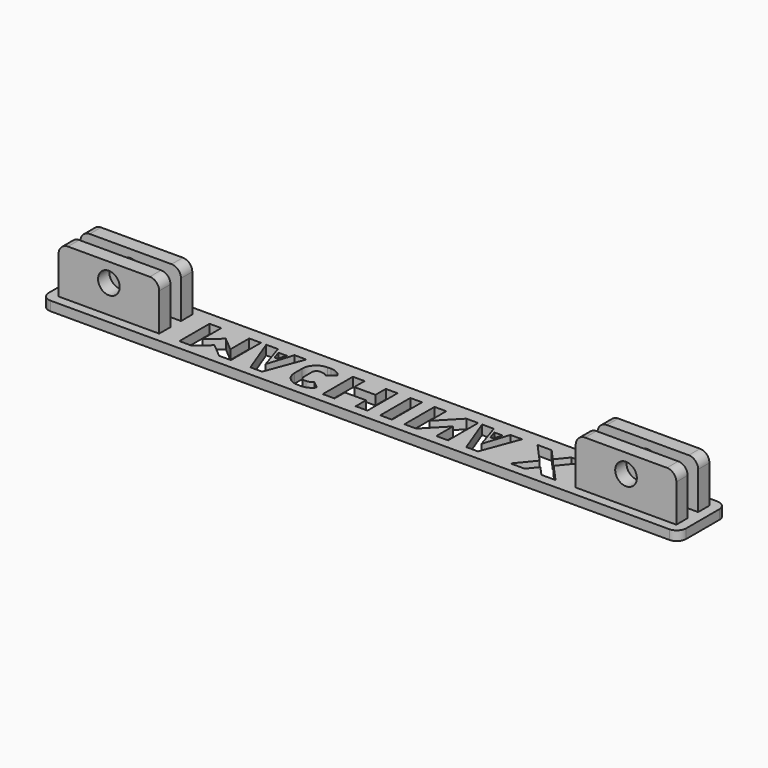
from build123d import *

# Parameters (mm, degrees)
F1_DEPTH = 2
F2_W     = 21.4
F2_H     = 3
F3_DEPTH = 10
F4_R     = 2
F5_R     = 2.3
F6_DEPTH = 25
F7_W     = 2.5
F7_H     = 8
F8_DEPTH = 25


with BuildPart() as f1:
    # F0 (on Top) → F1 (new body)
    with BuildSketch(Plane.XY):
        with BuildLine():
            Line((65.45691, 19.981824), (-66.14309, 19.981824))
            ThreePointArc((-66.14309, 19.981824), (-67.557303, 19.396037), (-68.14309, 17.981824))
            Line((-68.14309, 17.981824), (-68.14309, 9.181824))
            ThreePointArc((-68.14309, 9.181824), (-67.557303, 7.76761), (-66.14309, 7.181824))
            Line((-66.14309, 7.181824), (65.45691, 7.181824))
            ThreePointArc((65.45691, 7.181824), (66.871124, 7.76761), (67.45691, 9.181824))
            Line((67.45691, 9.181824), (67.45691, 17.981824))
            ThreePointArc((67.45691, 17.981824), (66.871124, 19.396037), (65.45691, 19.981824))
        make_face()
    extrude(amount=F1_DEPTH)

    # F2 (on face) → F3 (join)
    with BuildSketch(Plane.XY.offset(2)):
        with Locations((-55.34309, 10.681824)):
            Rectangle(F2_W, F2_H)
        with Locations((-55.34309, 16.481824)):
            Rectangle(F2_W, F2_H)
        with Locations((54.65691, 16.481824)):
            Rectangle(F2_W, F2_H)
        with Locations((54.65691, 10.681824)):
            Rectangle(F2_W, F2_H)
    extrude(amount=F3_DEPTH)

    # F4
    f4_edges = [f1.edges().sort_by_distance(p)[0] for p in [
        (-66.04309, 16.481824, 12),
        (-66.04309, 10.681824, 12),
        (-44.64309, 16.481824, 12),
        (-44.64309, 10.681824, 12),
        (43.95691, 16.481824, 12),
        (65.35691, 16.481824, 12),
        (65.35691, 10.681824, 12),
        (43.95691, 10.681824, 12),
    ]]
    fillet(f4_edges, radius=F4_R)

    # F5 (on face) → F6 (cut)
    with BuildSketch(Plane.XZ.offset(-9.181824)):
        with Locations((-55.34309, 8)):
            Circle(F5_R)
        with Locations((54.65691, 8)):
            Circle(F5_R)
    extrude(amount=-F6_DEPTH, mode=Mode.SUBTRACT)

    # F7 (on face) → F8 (cut)
    with BuildSketch(Plane(origin=(0, 0, 0), x_dir=(1, 0, 0), z_dir=(0, 0, -1))):
        Polygon((-37.84309, -9.181824), (-40.34309, -9.181824), (-40.34309, -17.181824), (-37.84309, -17.181824), (-37.84309, -12.181824), (-34.868522, -14.671218), (-31.893954, -12.181824), (-31.893954, -17.181824), (-29.393954, -17.181824), (-29.393954, -9.181824), (-31.893954, -9.181824), (-34.868522, -11.671218), align=None)
        Polygon((-25.244718, -9.181824), (-28.279638, -17.181824), (-25.779638, -17.181824), (-23.994718, -11.681824), (-22.25427, -17.181824), (-19.75427, -17.181824), (-22.744718, -9.181824), align=None)
        Polygon((-24.308708, -14.431824), (-24.887178, -16.214306), (-23.124494, -16.214306), (-23.688552, -14.431824), align=None)
        with BuildLine():
            ThreePointArc((-15.24951, -9.181824), (-17.37083, -10.060503), (-18.24951, -12.181824))
            Line((-18.24951, -12.181824), (-18.24951, -14.181824))
            ThreePointArc((-18.24951, -14.181824), (-17.37083, -16.303144), (-15.24951, -17.181824))
            Line((-15.24951, -17.181824), (-14.500879, -17.181824))
            ThreePointArc((-14.500879, -17.181824), (-13.139405, -16.855097), (-12.074485, -15.946083))
            Line((-12.074485, -15.946083), (-13.611591, -14.666511))
            ThreePointArc((-13.611591, -14.666511), (-14.240961, -15.06161), (-14.971134, -15.199663))
            ThreePointArc((-14.971134, -15.199663), (-15.814263, -15.003944), (-16.18885, -14.223651))
            Line((-16.18885, -14.223651), (-16.18885, -12.112802))
            ThreePointArc((-16.18885, -12.112802), (-15.814263, -11.332509), (-14.971134, -11.13679))
            ThreePointArc((-14.971134, -11.13679), (-14.240961, -11.274843), (-13.611591, -11.669942))
            Line((-13.611591, -11.669942), (-12.074485, -10.39037))
            ThreePointArc((-12.074485, -10.39037), (-13.134461, -9.500932), (-14.480871, -9.181824))
            Line((-14.480871, -9.181824), (-15.24951, -9.181824))
        make_face()
        Polygon((-7.34309, -9.181824), (-9.84309, -9.181824), (-9.84309, -17.181824), (-7.34309, -17.181824), (-7.34309, -14.431824), (-2.84309, -14.431824), (-2.84309, -17.181824), (-0.34309, -17.181824), (-0.34309, -9.181824), (-2.84309, -9.181824), (-2.84309, -11.931824), (-7.34309, -11.931824), align=None)
        with Locations((3.627188, -13.181824)):
            Rectangle(F7_W, F7_H)
        Polygon((10.021806, -9.181824), (7.521806, -9.181824), (7.521806, -17.181824), (10.021806, -17.181824), (10.021806, -12.771093), (14.303348, -17.181824), (16.803348, -17.181824), (16.803348, -9.181824), (14.303348, -9.181824), (14.303348, -13.592554), align=None)
        Polygon((20.67196, -9.181824), (17.637041, -17.181824), (20.137041, -17.181824), (21.92196, -11.681824), (23.662409, -17.181824), (26.162409, -17.181824), (23.17196, -9.181824), align=None)
        Polygon((21.0282, -16.214306), (22.792184, -16.214306), (22.228127, -14.431824), (21.60667, -14.431824), align=None)
        Polygon((33.219673, -12.990384), (29.436884, -17.181824), (32.436884, -17.181824), (34.647883, -14.731973), (36.65691, -17.181824), (39.65691, -17.181824), (36.219673, -12.990384), (39.65691, -9.181824), (36.65691, -9.181824), (34.791463, -11.248794), (33.09642, -9.181824), (30.09642, -9.181824), align=None)
    extrude(amount=-F8_DEPTH, mode=Mode.SUBTRACT)


solid = f1.part
